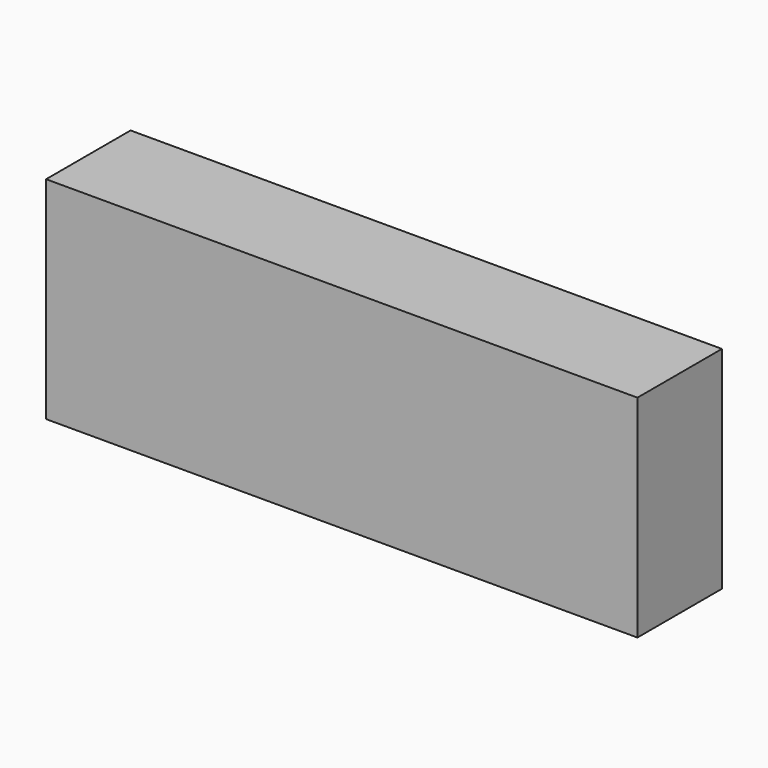
from build123d import *

# Parameters (mm, degrees)
SKETCH_W      = 140
SKETCH_H      = 25
EXTRUDE_DEPTH = 50


with BuildPart() as part:
    # Sketch → Extrude (new body)
    with BuildSketch(Plane.XY):
        Rectangle(SKETCH_W, SKETCH_H)
    extrude(amount=EXTRUDE_DEPTH)


solid = part.part
